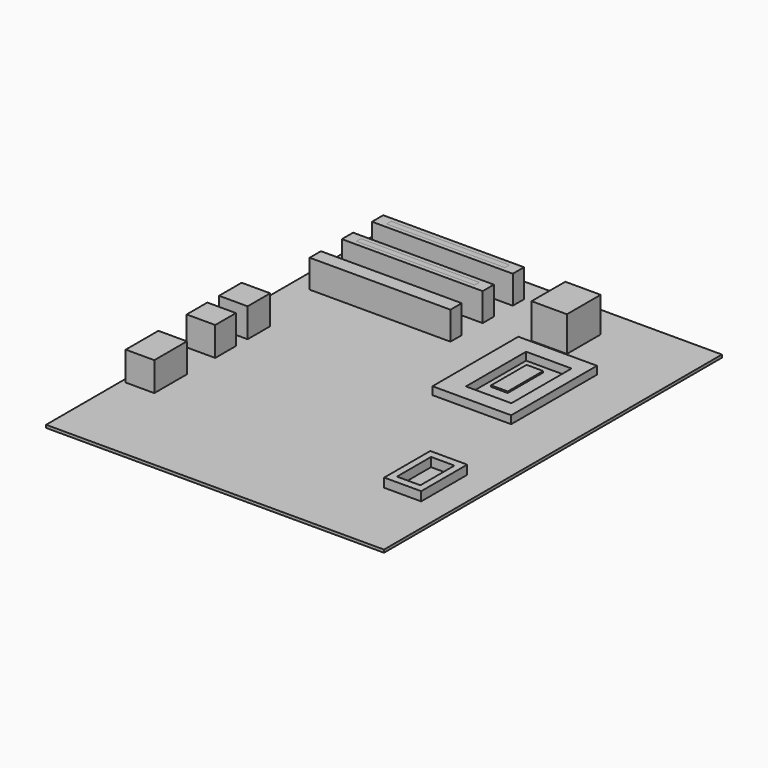
from build123d import *

# Parameters (mm, degrees)
F0_W      = 120
F0_H      = 150
F1_DEPTH  = 1
F2_W      = 50
F2_H      = 5
F3_DEPTH  = 10
F4_W      = 42
F4_H      = 2
F5_DEPTH  = 5
F6_W      = 42
F6_H      = 2
F7_DEPTH  = 5
F8_W      = 42
F8_H      = 2
F9_DEPTH  = 5
F11_W     = 12.5613491982
F11_H     = 14.9769969285
F12_DEPTH = 12.4
F13_W     = 27.9304655269
F13_H     = 38.0869996734
F13_W_2   = 16.1488875747
F13_H_2   = 26.711682789
F14_DEPTH = 2.8
F15_W     = 5.8907903731
F15_H     = 15.7426279038
F16_DEPTH = 0.5
F17_W     = 10.1457051933
F17_H     = 10.0249247625
F18_DEPTH = 10.3
F17_H_2   = 9.1794477776
F17_H_3   = 14.4938677549
F19_W     = 7
F19_H     = 2
F20_DEPTH = 6
F21_W     = 7
F21_H     = 2
F22_DEPTH = 6
F23_W     = 12
F23_H     = 2
F24_DEPTH = 6
F25_W     = 13.1174921989
F25_H     = 20.4330086708
F25_W_2   = 8.3245635033
F25_H_2   = 15.13556391
F26_DEPTH = 3.2


with BuildPart() as f1:
    # F0 (on Top) → F1 (new body)
    with BuildSketch(Plane.XY):
        Rectangle(F0_W, F0_H)
    extrude(amount=F1_DEPTH)

    # F8 (on face) → F9 (cut)
    with BuildSketch(Plane.XY.offset(11)):
        with Locations((-28.592904564, 36.5001881123)):
            Rectangle(F8_W, F8_H)
    extrude(amount=F9_DEPTH, mode=Mode.SUBTRACT)


with BuildPart() as f3:
    # F2 (on face) → F3 (new body)
    with BuildSketch(Plane.XY.offset(1)):
        with Locations((-28.592904564, 64.1609585766)):
            Rectangle(F2_W, F2_H)
    extrude(amount=F3_DEPTH)


with BuildPart() as f3b:
    # F2 (on face) → F3, piece 2 (new body)
    with BuildSketch(Plane.XY.offset(1)):
        with Locations((-28.592904564, 50.7838189137)):
            Rectangle(F2_W, F2_H)
    extrude(amount=F3_DEPTH)


with BuildPart() as f3c:
    # F2 (on face) → F3, piece 3 (new body)
    with BuildSketch(Plane.XY.offset(1)):
        with Locations((-28.592904564, 36.5001881123)):
            Rectangle(F2_W, F2_H)
    extrude(amount=F3_DEPTH)


with BuildPart() as f5:
    # F4 (on face) → F5 (new body)
    with BuildSketch(Plane.XY.offset(11)):
        with Locations((-28.592904564, 64.1609585766)):
            Rectangle(F4_W, F4_H)
    extrude(amount=-F5_DEPTH)


with BuildPart() as f7:
    # F6 (on face) → F7 (new body)
    with BuildSketch(Plane.XY.offset(11)):
        with Locations((-28.592904564, 50.7838189137)):
            Rectangle(F6_W, F6_H)
    extrude(amount=-F7_DEPTH)


with BuildPart() as f12:
    # F11 (on face) → F12 (new body)
    with BuildSketch(Plane.XY.offset(1)):
        with Locations((19.9290653691, 55.9221636504)):
            Rectangle(F11_W, F11_H)
    extrude(amount=F12_DEPTH)


with BuildPart() as f14:
    # F13 (on face) → F14 (new body)
    with BuildSketch(Plane.XY.offset(1)):
        with Locations((26.5448740683, 24.852467468)):
            Rectangle(F13_W, F13_H)
        with Locations((27.9667899013, 24.8524681665)):
            Rectangle(F13_W_2, F13_H_2, mode=Mode.SUBTRACT)
    extrude(amount=F14_DEPTH)


with BuildPart() as f16:
    # F15 (on face) → F16 (new body)
    with BuildSketch(Plane.XY.offset(1)):
        with Locations((25.1199938357, 27.7099097148)):
            Rectangle(F15_W, F15_H)
    extrude(amount=F16_DEPTH)


with BuildPart() as f18:
    # F17 (on face) → F18 (new body)
    with BuildSketch(Plane.XY.offset(1)):
        with Locations((-53.5065177828, 5.0124623813)):
            Rectangle(F17_W, F17_H)
    extrude(amount=F18_DEPTH)


with BuildPart() as f18b:
    # F17 (on face) → F18, piece 2 (new body)
    with BuildSketch(Plane.XY.offset(1)):
        with Locations((-53.5065177828, -9.7833597101)):
            Rectangle(F17_W, F17_H_2)
    extrude(amount=F18_DEPTH)


with BuildPart() as f18c:
    # F17 (on face) → F18, piece 3 (new body)
    with BuildSketch(Plane.XY.offset(1)):
        with Locations((-53.5065177828, -34.1813676059)):
            Rectangle(F17_W, F17_H_3)
    extrude(amount=F18_DEPTH)


with BuildPart() as f20:
    # F19 (on face) → F20 (new body)
    with BuildSketch(Plane(origin=(-58.5793703794, 0, 0), x_dir=(0, -1, 0), z_dir=(-1, 0, 0))):
        with Locations((-5.0124623813, 6.15)):
            Rectangle(F19_W, F19_H)
    extrude(amount=-F20_DEPTH)


with BuildPart() as f22:
    # F21 (on face) → F22 (new body)
    with BuildSketch(Plane(origin=(-58.5793703794, 0, 0), x_dir=(0, -1, 0), z_dir=(-1, 0, 0))):
        with Locations((9.7833597101, 6.15)):
            Rectangle(F21_W, F21_H)
    extrude(amount=-F22_DEPTH)


with BuildPart() as f24:
    # F23 (on face) → F24 (new body)
    with BuildSketch(Plane(origin=(-58.5793703794, 0, 0), x_dir=(0, -1, 0), z_dir=(-1, 0, 0))):
        with Locations((34.1813676059, 6.15)):
            Rectangle(F23_W, F23_H)
    extrude(amount=-F24_DEPTH)


with BuildPart() as f26:
    # F25 (on face) → F26 (new body)
    with BuildSketch(Plane.XY.offset(1)):
        with Locations((43.4258058667, -35.767737776)):
            Rectangle(F25_W, F25_H)
        with Locations((43.4258058667, -35.767737776)):
            Rectangle(F25_W_2, F25_H_2, mode=Mode.SUBTRACT)
    extrude(amount=F26_DEPTH)


solid = Compound([f1.part, f3.part, f3b.part, f3c.part, f5.part, f7.part, f12.part, f14.part, f16.part, f18.part, f18b.part, f18c.part, f20.part, f22.part, f24.part, f26.part])
